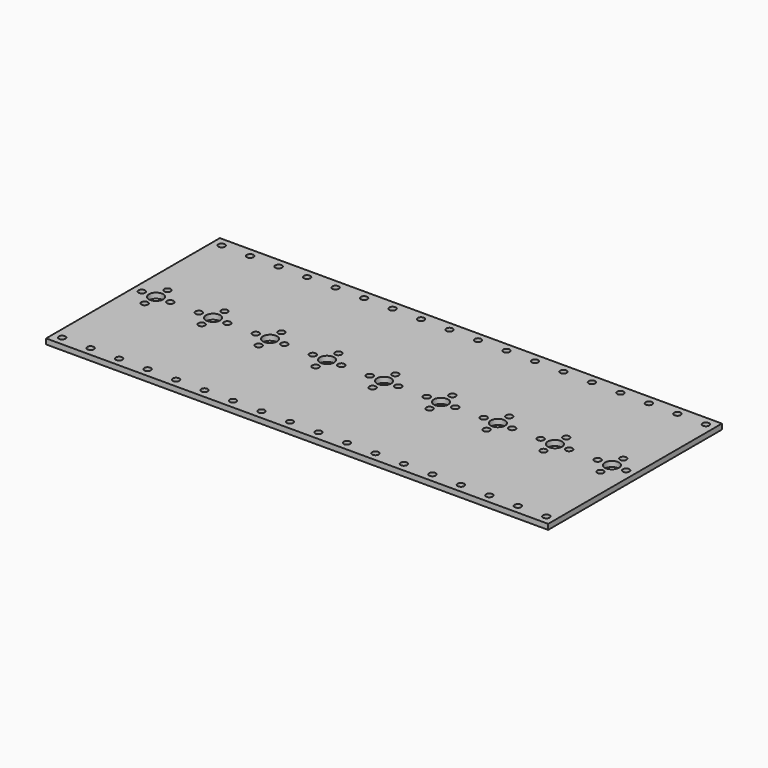
from build123d import *

# Parameters (mm, degrees)
F0_W     = 282
F0_H     = 122
F0_R     = 1.85
F0_R_2   = 4
F1_DEPTH = 3


with BuildPart() as f1:
    # F0 (on Top) → F1 (new body)
    with BuildSketch(Plane.XY):
        Rectangle(F0_W, F0_H)
        with Locations((-136, -56)):
            Circle(F0_R, mode=Mode.SUBTRACT)
        with Locations((-120, -56)):
            Circle(F0_R, mode=Mode.SUBTRACT)
        with Locations((-104, -56)):
            Circle(F0_R, mode=Mode.SUBTRACT)
        with Locations((-88, -56)):
            Circle(F0_R, mode=Mode.SUBTRACT)
        with Locations((-72, -56)):
            Circle(F0_R, mode=Mode.SUBTRACT)
        with Locations((-56, -56)):
            Circle(F0_R, mode=Mode.SUBTRACT)
        with Locations((-40, -56)):
            Circle(F0_R, mode=Mode.SUBTRACT)
        with Locations((-24, -56)):
            Circle(F0_R, mode=Mode.SUBTRACT)
        with Locations((-8, -56)):
            Circle(F0_R, mode=Mode.SUBTRACT)
        with Locations((-128, -8)):
            Circle(F0_R, mode=Mode.SUBTRACT)
        with Locations((-96, -8)):
            Circle(F0_R, mode=Mode.SUBTRACT)
        with Locations((-64, -8)):
            Circle(F0_R, mode=Mode.SUBTRACT)
        with Locations((-32, -8)):
            Circle(F0_R, mode=Mode.SUBTRACT)
        with Locations((8, -56)):
            Circle(F0_R, mode=Mode.SUBTRACT)
        with Locations((24, -56)):
            Circle(F0_R, mode=Mode.SUBTRACT)
        with Locations((40, -56)):
            Circle(F0_R, mode=Mode.SUBTRACT)
        with Locations((56, -56)):
            Circle(F0_R, mode=Mode.SUBTRACT)
        with Locations((72, -56)):
            Circle(F0_R, mode=Mode.SUBTRACT)
        with Locations((88, -56)):
            Circle(F0_R, mode=Mode.SUBTRACT)
        with Locations((104, -56)):
            Circle(F0_R, mode=Mode.SUBTRACT)
        with Locations((120, -56)):
            Circle(F0_R, mode=Mode.SUBTRACT)
        with Locations((136, -56)):
            Circle(F0_R, mode=Mode.SUBTRACT)
        with Locations((0, -8)):
            Circle(F0_R, mode=Mode.SUBTRACT)
        with Locations((32, -8)):
            Circle(F0_R, mode=Mode.SUBTRACT)
        with Locations((64, -8)):
            Circle(F0_R, mode=Mode.SUBTRACT)
        with Locations((96, -8)):
            Circle(F0_R, mode=Mode.SUBTRACT)
        with Locations((128, -8)):
            Circle(F0_R, mode=Mode.SUBTRACT)
        with Locations((-136, 0)):
            Circle(F0_R, mode=Mode.SUBTRACT)
        with Locations((-128, 0)):
            Circle(F0_R_2, mode=Mode.SUBTRACT)
        with Locations((-120, 0)):
            Circle(F0_R, mode=Mode.SUBTRACT)
        with Locations((-128, 8)):
            Circle(F0_R, mode=Mode.SUBTRACT)
        with Locations((-104, 0)):
            Circle(F0_R, mode=Mode.SUBTRACT)
        with Locations((-96, 0)):
            Circle(F0_R_2, mode=Mode.SUBTRACT)
        with Locations((-88, 0)):
            Circle(F0_R, mode=Mode.SUBTRACT)
        with Locations((-72, 0)):
            Circle(F0_R, mode=Mode.SUBTRACT)
        with Locations((-96, 8)):
            Circle(F0_R, mode=Mode.SUBTRACT)
        with Locations((-64, 0)):
            Circle(F0_R_2, mode=Mode.SUBTRACT)
        with Locations((-56, 0)):
            Circle(F0_R, mode=Mode.SUBTRACT)
        with Locations((-40, 0)):
            Circle(F0_R, mode=Mode.SUBTRACT)
        with Locations((-64, 8)):
            Circle(F0_R, mode=Mode.SUBTRACT)
        with Locations((-32, 0)):
            Circle(F0_R_2, mode=Mode.SUBTRACT)
        with Locations((-24, 0)):
            Circle(F0_R, mode=Mode.SUBTRACT)
        with Locations((-8, 0)):
            Circle(F0_R, mode=Mode.SUBTRACT)
        with Locations((-32, 8)):
            Circle(F0_R, mode=Mode.SUBTRACT)
        with Locations((-136, 56)):
            Circle(F0_R, mode=Mode.SUBTRACT)
        with Locations((-120, 56)):
            Circle(F0_R, mode=Mode.SUBTRACT)
        with Locations((-104, 56)):
            Circle(F0_R, mode=Mode.SUBTRACT)
        with Locations((-88, 56)):
            Circle(F0_R, mode=Mode.SUBTRACT)
        with Locations((-72, 56)):
            Circle(F0_R, mode=Mode.SUBTRACT)
        with Locations((-56, 56)):
            Circle(F0_R, mode=Mode.SUBTRACT)
        with Locations((-40, 56)):
            Circle(F0_R, mode=Mode.SUBTRACT)
        with Locations((-24, 56)):
            Circle(F0_R, mode=Mode.SUBTRACT)
        with Locations((-8, 56)):
            Circle(F0_R, mode=Mode.SUBTRACT)
        Circle(F0_R_2, mode=Mode.SUBTRACT)
        with Locations((8, 0)):
            Circle(F0_R, mode=Mode.SUBTRACT)
        with Locations((24, 0)):
            Circle(F0_R, mode=Mode.SUBTRACT)
        with Locations((32, 0)):
            Circle(F0_R_2, mode=Mode.SUBTRACT)
        with Locations((0, 8)):
            Circle(F0_R, mode=Mode.SUBTRACT)
        with Locations((32, 8)):
            Circle(F0_R, mode=Mode.SUBTRACT)
        with Locations((40, 0)):
            Circle(F0_R, mode=Mode.SUBTRACT)
        with Locations((56, 0)):
            Circle(F0_R, mode=Mode.SUBTRACT)
        with Locations((64, 0)):
            Circle(F0_R_2, mode=Mode.SUBTRACT)
        with Locations((64, 8)):
            Circle(F0_R, mode=Mode.SUBTRACT)
        with Locations((72, 0)):
            Circle(F0_R, mode=Mode.SUBTRACT)
        with Locations((88, 0)):
            Circle(F0_R, mode=Mode.SUBTRACT)
        with Locations((96, 0)):
            Circle(F0_R_2, mode=Mode.SUBTRACT)
        with Locations((104, 0)):
            Circle(F0_R, mode=Mode.SUBTRACT)
        with Locations((96, 8)):
            Circle(F0_R, mode=Mode.SUBTRACT)
        with Locations((120, 0)):
            Circle(F0_R, mode=Mode.SUBTRACT)
        with Locations((128, 0)):
            Circle(F0_R_2, mode=Mode.SUBTRACT)
        with Locations((136, 0)):
            Circle(F0_R, mode=Mode.SUBTRACT)
        with Locations((128, 8)):
            Circle(F0_R, mode=Mode.SUBTRACT)
        with Locations((8, 56)):
            Circle(F0_R, mode=Mode.SUBTRACT)
        with Locations((24, 56)):
            Circle(F0_R, mode=Mode.SUBTRACT)
        with Locations((40, 56)):
            Circle(F0_R, mode=Mode.SUBTRACT)
        with Locations((56, 56)):
            Circle(F0_R, mode=Mode.SUBTRACT)
        with Locations((72, 56)):
            Circle(F0_R, mode=Mode.SUBTRACT)
        with Locations((88, 56)):
            Circle(F0_R, mode=Mode.SUBTRACT)
        with Locations((104, 56)):
            Circle(F0_R, mode=Mode.SUBTRACT)
        with Locations((120, 56)):
            Circle(F0_R, mode=Mode.SUBTRACT)
        with Locations((136, 56)):
            Circle(F0_R, mode=Mode.SUBTRACT)
    extrude(amount=F1_DEPTH)


solid = f1.part
